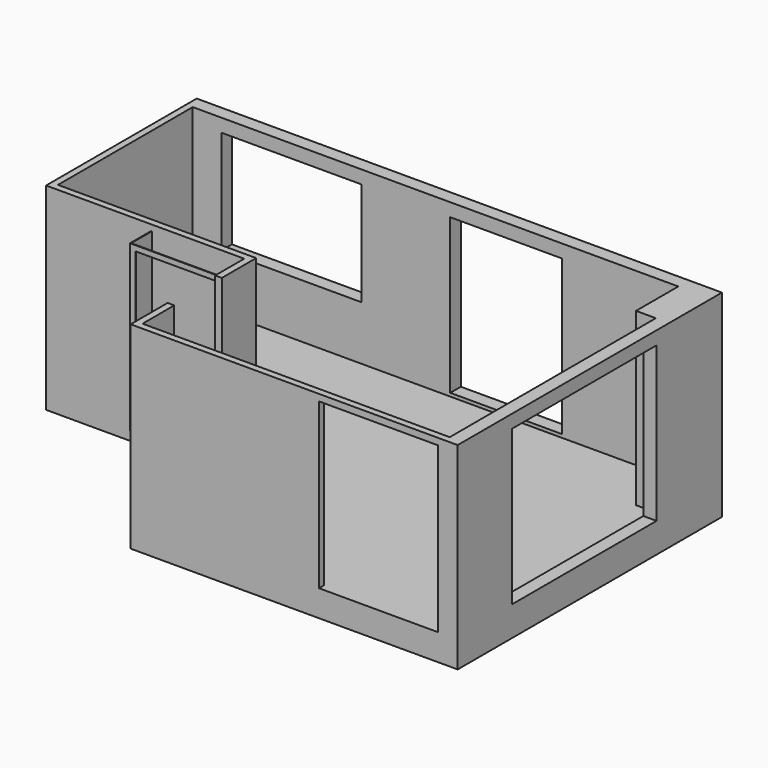
from build123d import *

# Parameters (mm, degrees)
F0_W      = 100
F0_H      = 900
F0_W_2    = 1691.1261081696
F0_H_2    = 200
F0_W_3    = 2120.6188201904
F0_W_4    = 1344.6843624115
F0_W_5    = 200
F0_H_3    = 2737.768471241
F0_W_6    = 1800
F0_H_4    = 100
F1_DEPTH  = 400
F2_DEPTH  = 2590
F3_DEPTH  = 50
F4_DEPTH  = 820
F5_DEPTH  = 2500
F6_W      = 1250
F6_H      = 2320
F7_DEPTH  = 25
F8_W      = 2120.6188201904
F8_H      = 200
F8_W_2    = 1691.1261081696
F9_DEPTH  = 200
F10_W     = 1800
F10_H     = 100
F11_DEPTH = 100
F12_W     = 2737.768471241
F12_H     = 200
F13_DEPTH = 200


with BuildPart() as f1:
    # F0 (on Top) → F1 (new body)
    with BuildSketch(Plane.XY):
        Polygon((-4750, 1500), (-4650, 1500), (-4650, 2150), (-7650, 2150), (-7650, 4700), (-7217.5459861755, 4700), (-7217.5459861755, 4900), (-7750, 4900), (-7750, 2050), (-6160, 2050), (-6150, 2050), (-4750, 2050), (-4750, 1660), (-4750, 1650), align=None)
        Polygon((-100, 0), (0, 0), (0, 925.7456660271), (0, 3663.5141372681), (0, 3900), (-300, 3900), (-300, 4700), (-2061.1166954041, 4700), (-3752.2428035736, 4700), (-5096.9271659851, 4700), (-7217.5459861755, 4700), (-7650, 4700), (-7650, 2150), (-4650, 2150), (-4650, 1500), (-4650, 600), (-4650, 0), (-1900, 0), align=None)
        with Locations((-4700, 1050)):
            Rectangle(F0_W, F0_H)
        Polygon((-1900, -100), (-1900, 0), (-4650, 0), (-4650, 600), (-4750, 600), (-4750, -100), align=None)
        with Locations((-2906.6797494888, 4800)):
            Rectangle(F0_W_2, F0_H_2)
        Polygon((0, 3900), (0, 3663.5141372681), (200, 3663.5141372681), (200, 4900), (-2061.1166954041, 4900), (-2061.1166954041, 4700), (-300, 4700), (-300, 3900), align=None)
        with Locations((-6157.2365760803, 4800)):
            Rectangle(F0_W_3, F0_H_2)
        with Locations((-4424.5849847794, 4800)):
            Rectangle(F0_W_4, F0_H_2)
        with Locations((100, 2294.6299016476)):
            Rectangle(F0_W_5, F0_H_3)
        Polygon((0, 925.7456660271), (0, 0), (-100, 0), (-100, -100), (200, -100), (200, 925.7456660271), align=None)
        with Locations((-1000, -50)):
            Rectangle(F0_W_6, F0_H_4)
    extrude(amount=-F1_DEPTH)

    # F0 (on Top) → F2 (join)
    with BuildSketch(Plane.XY):
        Polygon((-4750, 1500), (-4650, 1500), (-4650, 2150), (-7650, 2150), (-7650, 4700), (-7217.5459861755, 4700), (-7217.5459861755, 4900), (-7750, 4900), (-7750, 2050), (-6160, 2050), (-6150, 2050), (-4750, 2050), (-4750, 1660), (-4750, 1650), align=None)
        with Locations((-4424.5849847794, 4800)):
            Rectangle(F0_W_4, F0_H_2)
        Polygon((0, 3900), (0, 3663.5141372681), (200, 3663.5141372681), (200, 4900), (-2061.1166954041, 4900), (-2061.1166954041, 4700), (-300, 4700), (-300, 3900), align=None)
        Polygon((0, 925.7456660271), (0, 0), (-100, 0), (-100, -100), (200, -100), (200, 925.7456660271), align=None)
        Polygon((-1900, -100), (-1900, 0), (-4650, 0), (-4650, 600), (-4750, 600), (-4750, -100), align=None)
    extrude(amount=F2_DEPTH)

    # F0 (on Top) → F3 (join)
    with BuildSketch(Plane.XY):
        with Locations((-2906.6797494888, 4800)):
            Rectangle(F0_W_2, F0_H_2)
        with Locations((100, 2294.6299016476)):
            Rectangle(F0_W_5, F0_H_3)
    extrude(amount=F3_DEPTH)

    # F0 (on Top) → F4 (join)
    with BuildSketch(Plane.XY):
        with Locations((-6157.2365760803, 4800)):
            Rectangle(F0_W_3, F0_H_2)
    extrude(amount=F4_DEPTH)

    # F0 (on Top) → F5 (join)
    with BuildSketch(Plane.XY):
        Polygon((-6160, 1650), (-4750, 1650), (-4750, 1660), (-6150, 1660), (-6150, 2050), (-6160, 2050), align=None)
    extrude(amount=F5_DEPTH)

    # F6 (on face) → F7 (cut)
    with BuildSketch(Plane.XZ.offset(-1650)):
        with Locations((-5455, 1260)):
            Rectangle(F6_W, F6_H)
    extrude(amount=-F7_DEPTH, mode=Mode.SUBTRACT)

    # F8 (on face) → F9 (join)
    with BuildSketch(Plane.XZ.offset(-4700)):
        with Locations((-6157.2365760803, 2490)):
            Rectangle(F8_W, F8_H)
        with Locations((-2906.6797494888, 2490)):
            Rectangle(F8_W_2, F8_H)
    extrude(amount=-F9_DEPTH)

    # F10 (on face) → F11 (join)
    with BuildSketch(Plane.XZ.offset(100)):
        with Locations((-1000, 2540)):
            Rectangle(F10_W, F10_H)
    extrude(amount=-F11_DEPTH)

    # F12 (on face) → F13 (join)
    with BuildSketch(Plane.YZ.offset(200)):
        Polygon((-100, -400), (4900, -400), (4900, 2590), (3663.5141372681, 2590), (3663.5141372681, 2390), (3663.5141372681, 50), (925.7456660271, 50), (925.7456660271, 2390), (925.7456660271, 2590), (-100, 2590), align=None)
        with Locations((2294.6299016476, 2490)):
            Rectangle(F12_W, F12_H)
    extrude(amount=-F13_DEPTH)


solid = f1.part
